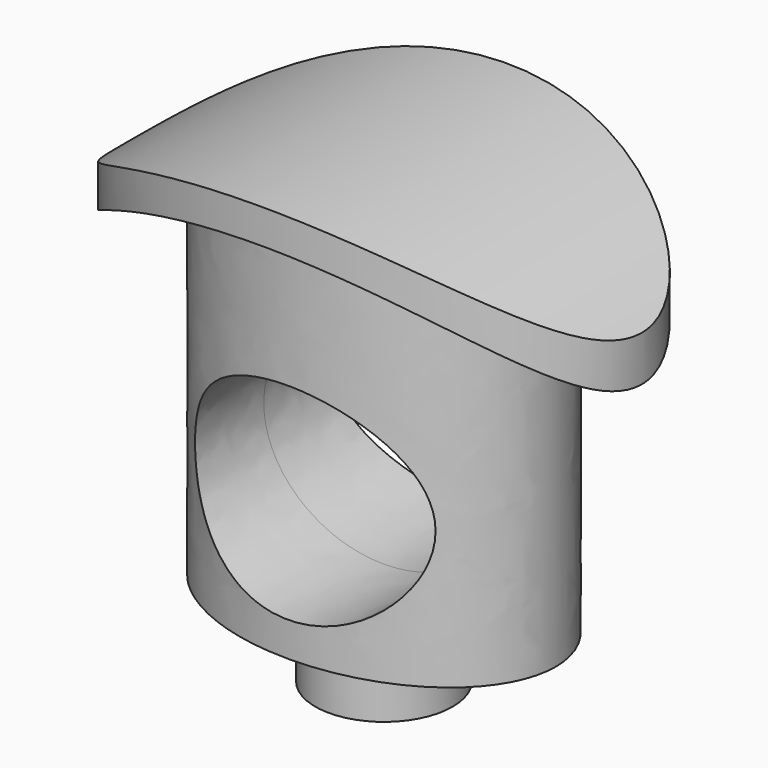
from build123d import *

# Parameters (mm, degrees)
F1_DEPTH = 18.2
F2_R     = 24.4528410826
F2_R_2   = 12
F2_R_3   = 11
F3_DEPTH = 12.5
F6_R     = 2
F7_DEPTH = 2
F9_DEPTH = 12.5


with BuildPart() as f1:
    # F0 (on Top) → F1 (new body)
    with BuildSketch(Plane.XY):
        with BuildLine():
            add(Edge.make_bspline(
                [(7.5, 0), (7.5, 7.7942286341), (-3.75, 3.897114317), (-15, 0), (-3.75, -3.897114317), (7.5, -7.7942286341), (7.5, 0)],
                knots=[0, 0, 0, 2.0943951024, 2.0943951024, 4.1887902048, 4.1887902048, 6.2831853072, 6.2831853072, 6.2831853072], degree=2, weights=[1, 0.5, 1, 0.5, 1, 0.5, 1]))
        make_face()
    extrude(amount=F1_DEPTH)

    # F2 (on Front) → F3 (cut, symmetric)
    with BuildSketch(Plane.XZ):
        Circle(F2_R)
        Circle(F2_R_2, mode=Mode.SUBTRACT)
        Circle(F2_R_3)
    extrude(amount=F3_DEPTH, both=True, mode=Mode.SUBTRACT)

    # F4 (on Top) → F5 (join, up to the next surface of F1)
    with BuildSketch(Plane.XY):
        with BuildLine():
            add(Edge.make_bspline(
                [(5, 0), (5, 6.0621778265), (-2.5, 3.0310889132), (-10, 0), (-2.5, -3.0310889132), (5, -6.0621778265), (5, 0)],
                knots=[0, 0, 0, 2.0943951024, 2.0943951024, 4.1887902048, 4.1887902048, 6.2831853072, 6.2831853072, 6.2831853072], degree=2, weights=[1, 0.5, 1, 0.5, 1, 0.5, 1]))
        make_face()
    extrude(until=Until.NEXT)

    # F6 (on face) → F7 (join)
    with BuildSketch(Plane(origin=(0, 0, 0), x_dir=(1, 0, 0), z_dir=(0, 0, -1))):
        Circle(F6_R)
    extrude(amount=F7_DEPTH)

    # F8 (on Front) → F9 (cut, symmetric)
    with BuildSketch(Plane.XZ):
        with BuildLine():
            add(Edge.make_bspline(
                [(3.5, 4), (3.5, 9.1961524227), (-1.75, 6.5980762114), (-7, 4), (-1.75, 1.4019237886), (3.5, -1.1961524227), (3.5, 4)],
                knots=[0, 0, 0, 2.0943951024, 2.0943951024, 4.1887902048, 4.1887902048, 6.2831853072, 6.2831853072, 6.2831853072], degree=2, weights=[1, 0.5, 1, 0.5, 1, 0.5, 1]))
        make_face()
    extrude(amount=F9_DEPTH, both=True, mode=Mode.SUBTRACT)


solid = f1.part
